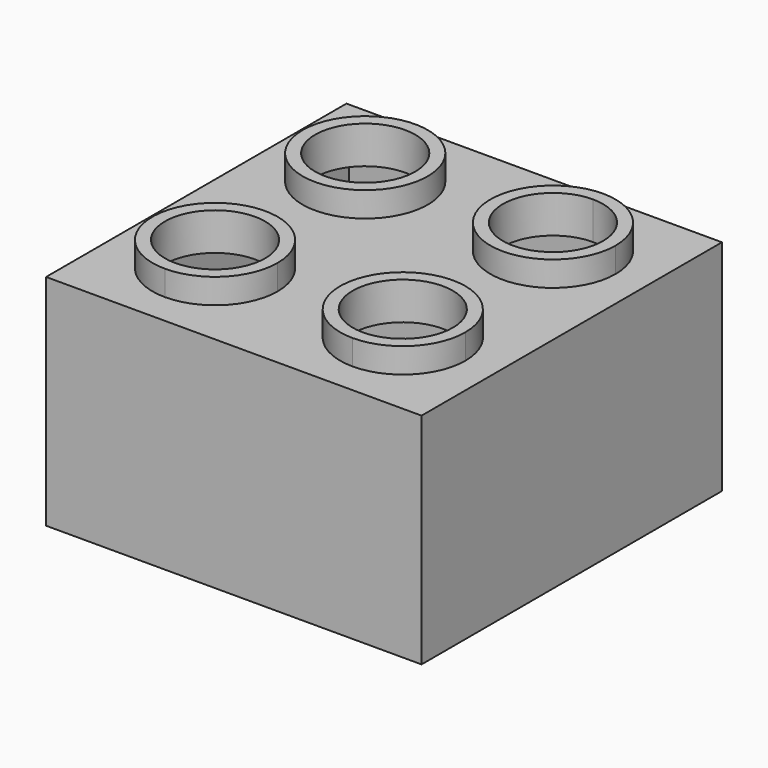
from build123d import *

# Parameters (mm, degrees)
F1_DEPTH = 39
F2_DEPTH = 35
F4_DEPTH = 33


with BuildPart() as f1:
    # F0 (on Top) → F1 (new body)
    with BuildSketch(Plane.XY):
        with BuildLine():
            ThreePointArc((55, -15), (52.0710678119, -7.9289321881), (45, -5))
            ThreePointArc((45, -5), (37.9289321881, -22.0710678119), (55, -15))
        make_face()
        with BuildLine():
            ThreePointArc((53, -15), (39.3431457505, -20.6568542495), (45, -7))
            ThreePointArc((45, -7), (50.6568542495, -9.3431457505), (53, -15))
        make_face(mode=Mode.SUBTRACT)
    extrude(amount=F1_DEPTH)



with BuildPart() as f1b:
    # F0 (on Top) → F1, piece 2 (new body)
    with BuildSketch(Plane.XY):
        with BuildLine():
            ThreePointArc((25, -15), (15, -5), (5, -15))
            ThreePointArc((5, -15), (15, -25), (25, -15))
        make_face()
        with BuildLine():
            ThreePointArc((23, -15), (15, -23), (7, -15))
            ThreePointArc((7, -15), (15, -7), (23, -15))
        make_face(mode=Mode.SUBTRACT)
    extrude(amount=F1_DEPTH)


with BuildPart() as f1c:
    # F0 (on Top) → F1, piece 3 (new body)
    with BuildSketch(Plane.XY):
        with BuildLine():
            ThreePointArc((25, -45), (7.9289321881, -37.9289321881), (15, -55))
            ThreePointArc((15, -55), (22.0710678119, -52.0710678119), (25, -45))
        make_face()
        with BuildLine():
            ThreePointArc((23, -45), (20.6568542495, -50.6568542495), (15, -53))
            ThreePointArc((15, -53), (9.3431457505, -39.3431457505), (23, -45))
        make_face(mode=Mode.SUBTRACT)
    extrude(amount=F1_DEPTH)


with BuildPart() as f1d:
    # F0 (on Top) → F1, piece 4 (new body)
    with BuildSketch(Plane.XY):
        with BuildLine():
            ThreePointArc((55, -45), (37.9289321881, -37.9289321881), (45, -55))
            ThreePointArc((45, -55), (52.0710678119, -52.0710678119), (55, -45))
        make_face()
        with BuildLine():
            ThreePointArc((53, -45), (50.6568542495, -50.6568542495), (45, -53))
            ThreePointArc((45, -53), (39.3431457505, -39.3431457505), (53, -45))
        make_face(mode=Mode.SUBTRACT)
    extrude(amount=F1_DEPTH)


with BuildPart() as f1_1:
    add(f1.part)

    add(f1b.part)  # F2 merges F1b

    add(f1c.part)  # F2 merges F1c

    add(f1d.part)  # F2 merges F1d
    # F0 (on Top) → F2 (join)
    with BuildSketch(Plane.XY):
        Polygon((15, 0), (0, 0), (0, -15), (0, -45), (0, -60), (15, -60), (45, -60), (60, -60), (60, -45), (60, -8.6315972731), (60, 0), (45, 0), align=None)
        with BuildLine():
            ThreePointArc((25, -45), (22.0710678119, -52.0710678119), (15, -55))
            ThreePointArc((15, -55), (7.9289321881, -37.9289321881), (25, -45))
        make_face(mode=Mode.SUBTRACT)
        with BuildLine():
            ThreePointArc((55, -45), (52.0710678119, -52.0710678119), (45, -55))
            ThreePointArc((45, -55), (37.9289321881, -37.9289321881), (55, -45))
        make_face(mode=Mode.SUBTRACT)
        with BuildLine():
            ThreePointArc((25, -15), (15, -25), (5, -15))
            ThreePointArc((5, -15), (15, -5), (25, -15))
        make_face(mode=Mode.SUBTRACT)
        with BuildLine():
            ThreePointArc((55, -15), (37.9289321881, -22.0710678119), (45, -5))
            ThreePointArc((45, -5), (52.0710678119, -7.9289321881), (55, -15))
        make_face(mode=Mode.SUBTRACT)
    extrude(amount=F2_DEPTH)

    # F3 (on Top) → F4 (cut)
    with BuildSketch(Plane.XY):
        Polygon((2, -30), (2, -58), (58, -58), (58, -2), (2, -2), align=None)
    extrude(amount=F4_DEPTH, mode=Mode.SUBTRACT)


solid = f1_1.part
